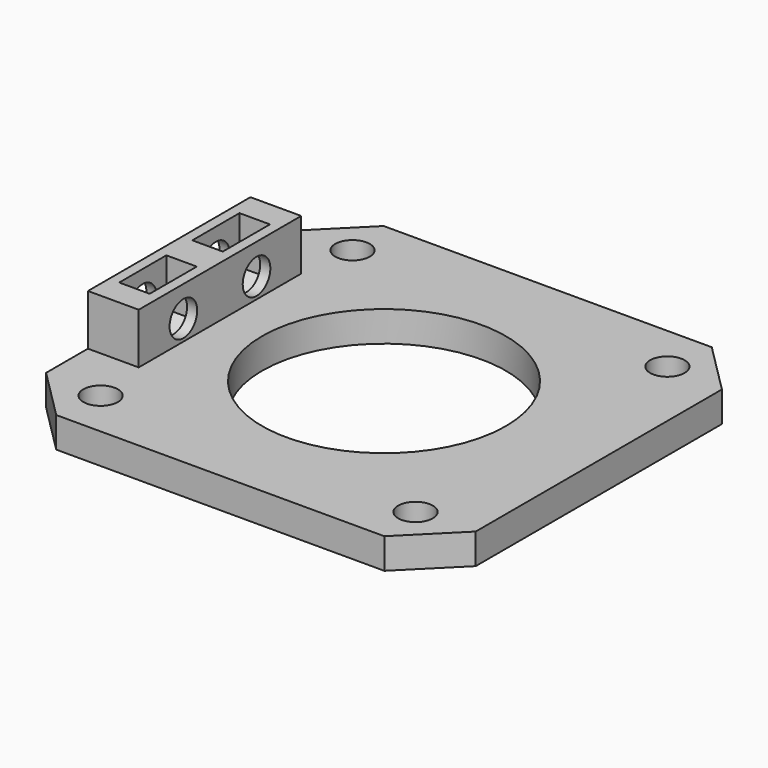
from build123d import *

# Parameters (mm, degrees)
SKETCH_W        = 42.3
SKETCH_H        = 40.3
SKETCH_R        = 12
SKETCH_R_2      = 1.7
PAD_DEPTH       = 3
CHAMFER_SIZE    = 5
SKETCH001_W     = 5
SKETCH001_H     = 20
PAD001_DEPTH    = 5
SKETCH002_R     = 1.7
POCKET_DEPTH    = 42.301
POCKET001_DEPTH = 1.5


with BuildPart() as part:
    # Sketch → Pad (new body)
    with BuildSketch(Plane.XY):
        Rectangle(SKETCH_W, SKETCH_H)
        Circle(SKETCH_R, mode=Mode.SUBTRACT)
        with Locations((-15.5, 15.5)):
            Circle(SKETCH_R_2, mode=Mode.SUBTRACT)
        with Locations((-15.5, -15.5)):
            Circle(SKETCH_R_2, mode=Mode.SUBTRACT)
        with Locations((15.5, -15.5)):
            Circle(SKETCH_R_2, mode=Mode.SUBTRACT)
        with Locations((15.5, 15.5)):
            Circle(SKETCH_R_2, mode=Mode.SUBTRACT)
    extrude(amount=PAD_DEPTH)

    # Chamfer
    chamfer_edges = [part.edges().sort_by_distance(p)[0] for p in [
        (21.15, -20.15, 1.5),
        (-21.15, -20.15, 1.5),
        (21.15, 20.15, 1.5),
        (-21.15, 20.15, 1.5),
    ]]
    chamfer(chamfer_edges, length=CHAMFER_SIZE)

    # Sketch001 (on Face5 of Chamfer) → Pad001 (join)
    with BuildSketch(Plane.XY.offset(3)):
        with Locations((-18.65, 0)):
            Rectangle(SKETCH001_W, SKETCH001_H)
    extrude(amount=PAD001_DEPTH)

    # Sketch002 (on Face19 of Pad001) → Pocket (cut, through all)
    with BuildSketch(Plane(origin=(-21.15, 0, 0), x_dir=(0, -1, 0), z_dir=(-1, 0, 0))):
        with Locations((-4.5, 5)):
            Circle(SKETCH002_R)
        with Locations((4.5, 5)):
            Circle(SKETCH002_R)
    extrude(amount=-POCKET_DEPTH, mode=Mode.SUBTRACT)

    # Sketch003 (on DatumPlane) → Pocket001 (cut, symmetric)
    with BuildSketch(Plane(origin=(-18.65, 0, 0), x_dir=(0, -1, 0), z_dir=(-1, 0, 0))):
        Polygon((4.5, 1.65), (7.401185, 3.325), (7.401185, 13.325), (1.598815, 13.325), (1.598815, 3.325), align=None)
        Polygon((-4.5, 1.65), (-1.598815, 3.325), (-1.598815, 13.325), (-7.401185, 13.325), (-7.401185, 3.325), align=None)
    extrude(amount=POCKET001_DEPTH, both=True, mode=Mode.SUBTRACT)


solid = part.part
